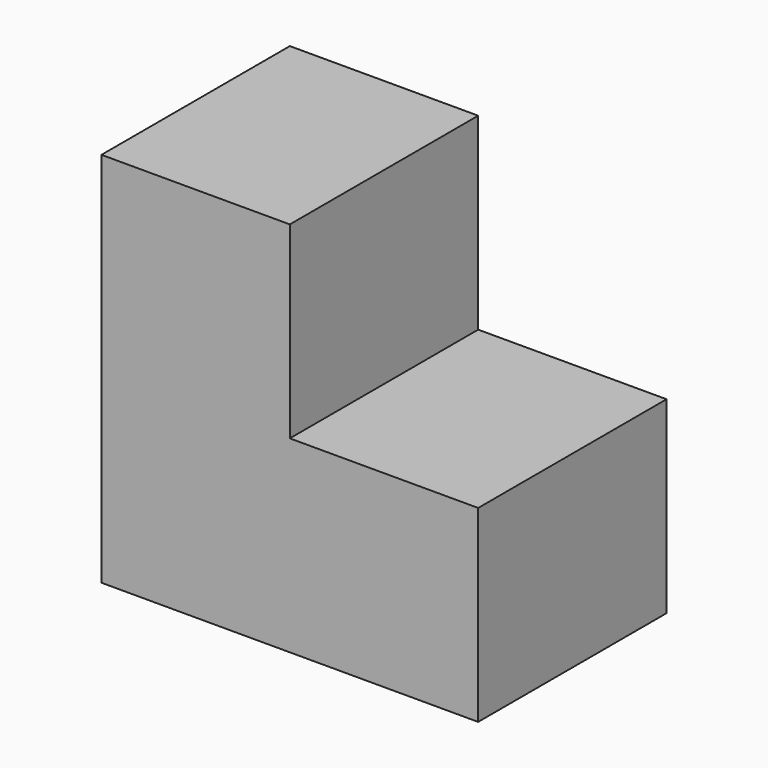
from build123d import *

# Parameters (mm, degrees)
F0_W     = 20
F0_H     = 20
F1_DEPTH = 25


with BuildPart() as f1:
    # F0 (on Front) → F1 (new body)
    with BuildSketch(Plane.XZ):
        with Locations((10, -10)):
            Rectangle(F0_W, F0_H)
        with Locations((-10, -10)):
            Rectangle(F0_W, F0_H)
        with Locations((-10, 10)):
            Rectangle(F0_W, F0_H)
    extrude(amount=F1_DEPTH)


solid = f1.part
